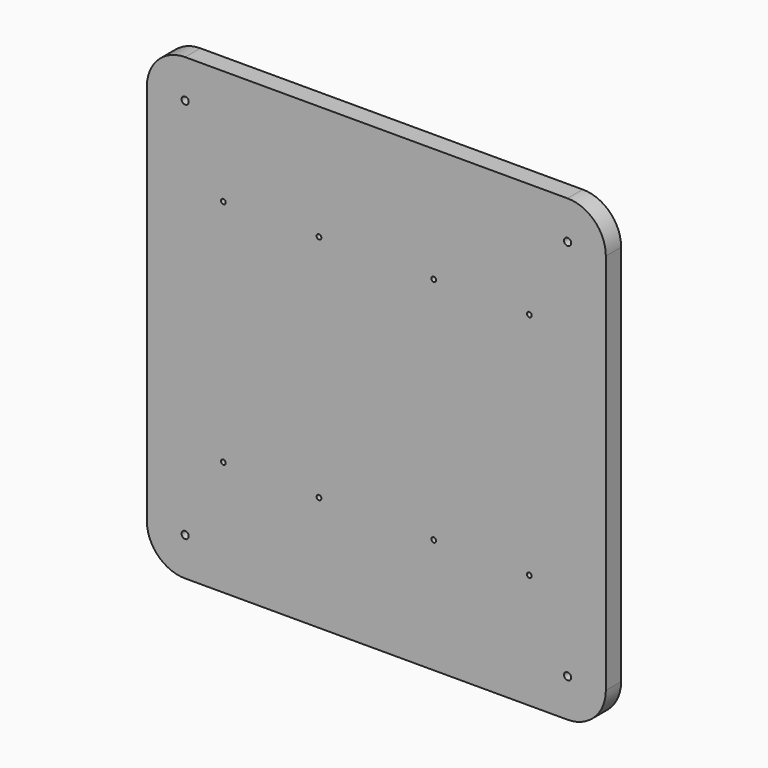
from build123d import *

# Parameters (mm, degrees)
F0_W     = 304.8
F0_H     = 304.8
F1_DEPTH = 12.7
F2_R     = 25.4
F3_R     = 2.3876
F4_DEPTH = 12.701
F5_R     = 1.5875
F6_DEPTH = 12.701


with BuildPart() as f1:
    # F0 (on Front) → F1 (new body)
    with BuildSketch(Plane.XZ):
        with Locations((-45.644617, -6.552428)):
            Rectangle(F0_W, F0_H)
    extrude(amount=F1_DEPTH)

    # F2
    f2_edges = [f1.edges().sort_by_distance(p)[0] for p in [
        (-198.044617, -6.35, 145.847572),
        (106.755383, -6.35, 145.847572),
        (-198.044617, -6.35, -158.952428),
        (106.755383, -6.35, -158.952428),
    ]]
    fillet(f2_edges, radius=F2_R)

    # F3 (on face) → F4 (cut, through all)
    with BuildSketch(Plane.XZ.offset(12.7)):
        with Locations((-172.644617, -133.552428)):
            Circle(F3_R)
        with Locations((81.355383, -133.552428)):
            Circle(F3_R)
        with Locations((81.355383, 120.447572)):
            Circle(F3_R)
        with Locations((-172.644617, 120.447572)):
            Circle(F3_R)
    extrude(amount=-F4_DEPTH, mode=Mode.SUBTRACT)

    # F5 (on face) → F6 (cut, through all)
    with BuildSketch(Plane.XZ.offset(12.7)):
        with Locations((-147.244617, 69.647572)):
            Circle(F5_R)
        with Locations((-83.744617, 69.647572)):
            Circle(F5_R)
        with Locations((-7.544617, 69.647572)):
            Circle(F5_R)
        with Locations((55.955383, 69.647572)):
            Circle(F5_R)
        with Locations((-147.244617, -82.752428)):
            Circle(F5_R)
        with Locations((-83.744617, -82.752428)):
            Circle(F5_R)
        with Locations((-7.544617, -82.752428)):
            Circle(F5_R)
        with Locations((55.955383, -82.752428)):
            Circle(F5_R)
    extrude(amount=-F6_DEPTH, mode=Mode.SUBTRACT)


solid = f1.part
